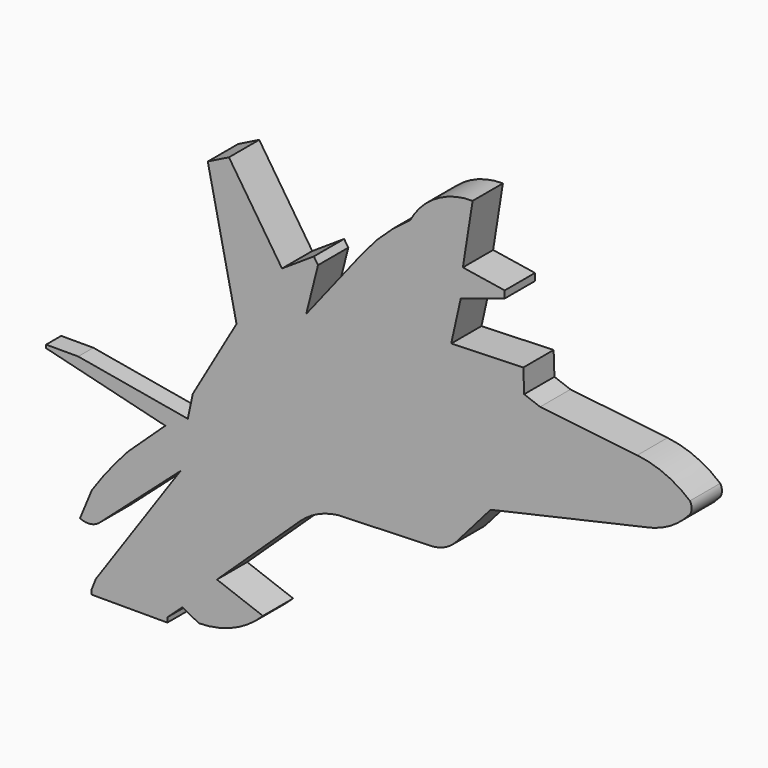
from build123d import *

# Parameters (mm, degrees)
F1_DEPTH = 6.35
F3_DEPTH = 6.351
F5_DEPTH = 3.175
F6_W     = 12.7
F6_H     = 6.35
F7_DEPTH = 0.79375


with BuildPart() as f1:
    # F0 (on Front) → F1 (new body)
    with BuildSketch(Plane.XZ):
        with BuildLine():
            Line((-24.499685, 6.084885), (-31.832033, -6.615115))
            Line((-31.832033, -6.615115), (-32.680925, -10.581826))
            Line((-32.680925, -10.581826), (-51.059928, -7.35622))
            Line((-51.059928, -7.35622), (-56.454085, -7.35622))
            Line((-56.454085, -7.35622), (-56.454085, -7.889269))
            Line((-56.454085, -7.889269), (-36.444739, -12.834284))
            Line((-36.444739, -12.834284), (-42.707812, -18.690551))
            ThreePointArc((-42.707812, -18.690551), (-45.886659, -22.415252), (-48.779547, -26.366159))
            Line((-48.779547, -26.366159), (-50.759438, -31.151975))
            ThreePointArc((-50.759438, -31.151975), (-49.034652, -31.438473), (-47.444712, -30.711107))
            Line((-47.444712, -30.711107), (-33.90066, -18.69024))
            Line((-33.90066, -18.69024), (-48.100285, -39.247155))
            Line((-48.100285, -39.247155), (-52.266728, -49.726259))
            Line((-52.266728, -49.726259), (-49.289104, -51.483847))
            ThreePointArc((-49.289104, -51.483847), (-47.937249, -51.364421), (-46.760015, -50.68922))
            Line((-46.760015, -50.68922), (-33.575531, -38.721569))
            Line((-33.575531, -38.721569), (-30.814609, -40.181708))
            ThreePointArc((-30.814609, -40.181708), (-24.988749, -38.958576), (-20.071417, -35.603501))
            Line((-20.071417, -35.603501), (-27.781654, -32.740546))
            Line((-27.781654, -32.740546), (-13.891757, -19.627586))
            ThreePointArc((-13.891757, -19.627586), (-10.881214, -17.587078), (-7.379708, -16.603975))
            Line((-7.379708, -16.603975), (8.157321, -16.091641))
            ThreePointArc((8.157321, -16.091641), (10.488998, -15.52545), (12.401008, -14.075792))
            Line((12.401008, -14.075792), (18.136641, -7.494206))
            Line((18.136641, -7.494206), (44.15147, -1.607402))
            ThreePointArc((44.15147, -1.607402), (48.239493, -0.096798), (51.586218, 2.694848))
            ThreePointArc((51.586218, 2.694848), (51.877375, 3.698296), (51.586218, 4.701744))
            ThreePointArc((51.586218, 4.701744), (47.456215, 7.294304), (42.746603, 8.558366))
            Line((42.746603, 8.558366), (26.455848, 10.407886))
            Line((26.455848, 10.407886), (23.768522, 11.395085))
            Line((23.768522, 11.395085), (23.636915, 15.313192))
            Line((23.636915, 15.313192), (11.526386, 14.906407))
            Line((11.526386, 14.906407), (13.124879, 22.049895))
            Line((13.124879, 22.049895), (20.507815, 24.478994))
            Line((20.507815, 24.478994), (20.507815, 25.678071))
            Line((20.507815, 25.678071), (13.484901, 26.78713))
            Line((13.484901, 26.78713), (15.122742, 37.158459))
            ThreePointArc((15.122742, 37.158459), (9.02504, 35.504795), (4.668364, 30.929212))
            ThreePointArc((4.668364, 30.929212), (0.413088, 27.492182), (-3.282097, 23.459049))
            Line((-3.282097, 23.459049), (-12.800315, 11.367148))
            Line((-12.800315, 11.367148), (-10.821415, 19.223839))
            Line((-10.821415, 19.223839), (-11.518751, 20.283149))
            Line((-11.518751, 20.283149), (-16.865773, 16.763244))
            Line((-16.865773, 16.763244), (-25.769467, 30.28868))
            Line((-25.769467, 30.28868), (-29.317735, 28.515689))
            Line((-29.317735, 28.515689), (-24.499685, 6.084885))
        make_face()
    extrude(amount=F1_DEPTH)

    # F2 (on face) → F3 (cut, through all)
    with BuildSketch(Plane.XZ.offset(6.35)):
        Polygon((-36.103749, -51.509792), (-36.103749, -41.01645), (-48.803749, -41.01645), (-61.503749, -41.01645), (-61.503749, -51.509792), align=None)
    extrude(amount=-F3_DEPTH, mode=Mode.SUBTRACT)

    # F4 (on face) → F5 (cut)
    with BuildSketch(Plane(origin=(0, 0, 0), x_dir=(-1, 0, 0), z_dir=(0, 1, 0))):
        Polygon((56.454085, 11.32442), (14.556029, 10.607801), (29.449862, -15.189074), (56.454085, -15.905692), align=None)
    extrude(amount=-F5_DEPTH, mode=Mode.SUBTRACT)

    # F6 (on face) → F7 (join)
    with BuildSketch(Plane(origin=(0, 0, -41.01645), x_dir=(1, 0, 0), z_dir=(0, 0, -1))):
        with Locations((-42.453749, 3.175)):
            Rectangle(F6_W, F6_H)
    extrude(amount=F7_DEPTH)


solid = f1.part
